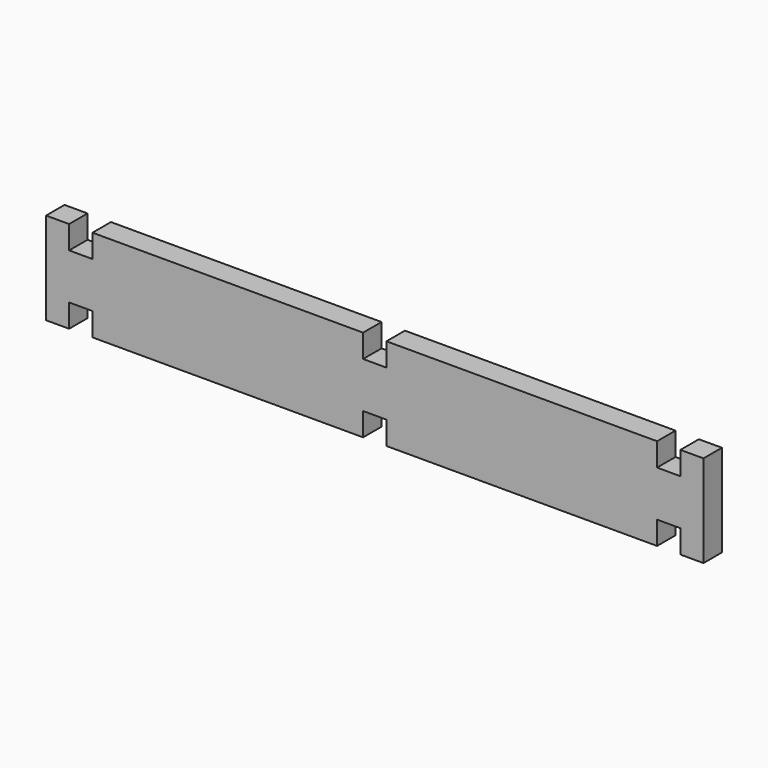
from build123d import *

# Parameters (mm, degrees)
F1_DEPTH = 3


with BuildPart() as f1:
    # F0 (on Front) → F1 (new body)
    with BuildSketch(Plane.XZ):
        Polygon((-42.78, 0), (-39.78, 0), (-39.78, 3.02), (-36.74, 3.02), (-36.74, 0), (-1.52, 0), (-1.52, 3.02), (1.52, 3.02), (1.52, 0), (36.74, 0), (36.74, 3.02), (39.78, 3.02), (39.78, 0), (42.78, 0), (42.78, 12), (39.78, 12), (39.78, 8.98), (36.74, 8.98), (36.74, 12), (1.52, 12), (1.52, 8.98), (-1.52, 8.98), (-1.52, 12), (-36.74, 12), (-36.74, 8.98), (-39.78, 8.98), (-39.78, 12), (-42.78, 12), align=None)
    extrude(amount=F1_DEPTH)


solid = f1.part
